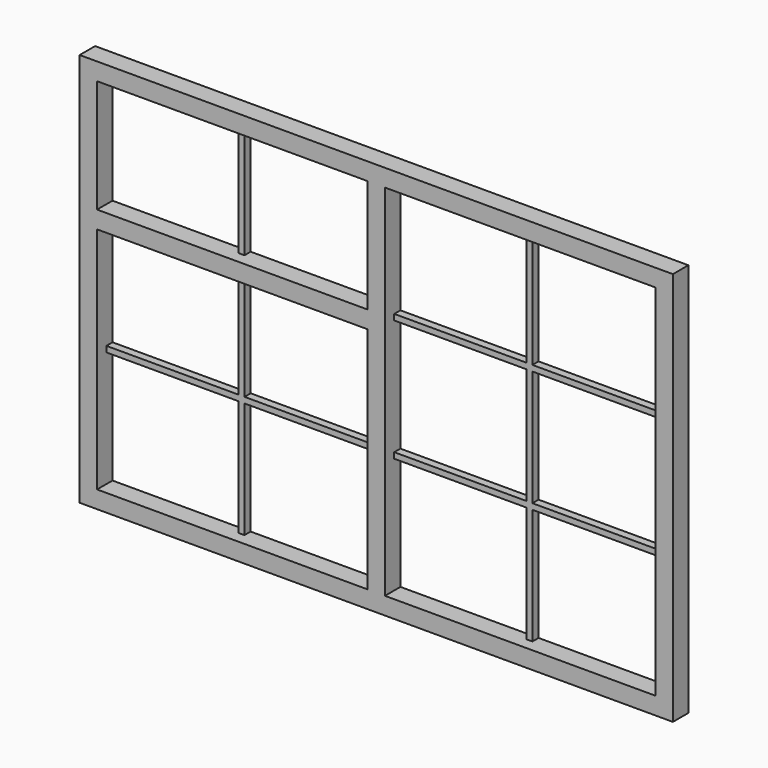
from build123d import *

# Parameters (mm, degrees)
F0_W     = 1535
F0_H     = 1020
F0_W_2   = 700
F0_H_2   = 592.5
F0_H_3   = 930
F0_H_4   = 292.5
F1_DEPTH = 50
F2_W     = 15
F2_H     = 292.5
F3_DEPTH = 20


with BuildPart() as f1:
    # F0 (on Front) → F1 (new body)
    with BuildSketch(Plane.XZ):
        with Locations((767.5, 510)):
            Rectangle(F0_W, F0_H)
        with Locations((1140, 341.25)):
            Rectangle(F0_W_2, F0_H_2, mode=Mode.SUBTRACT)
        with Locations((395, 510)):
            Rectangle(F0_W_2, F0_H_3, mode=Mode.SUBTRACT)
        with Locations((1140, 828.75)):
            Rectangle(F0_W_2, F0_H_4, mode=Mode.SUBTRACT)
    extrude(amount=F1_DEPTH)

    # F2 (on Front) → F3 (join)
    with BuildSketch(Plane.XZ):
        Polygon((402.5, 975), (387.5, 975), (387.5, 675), (45, 675), (45, 660), (387.5, 660), (387.5, 360), (45, 360), (45, 345), (387.5, 345), (387.5, 45), (402.5, 45), (402.5, 345), (745, 345), (745, 360), (402.5, 360), (402.5, 660), (745, 660), (745, 675), (402.5, 675), align=None)
        Polygon((1132.5, 360), (790, 360), (790, 345), (1132.5, 345), (1132.5, 45), (1147.5, 45), (1147.5, 345), (1490, 345), (1490, 360), (1147.5, 360), (1147.5, 637.5), (1132.5, 637.5), align=None)
        with Locations((1140, 828.75)):
            Rectangle(F2_W, F2_H)
    extrude(amount=F3_DEPTH)


with BuildPart() as f4_1:
    # F4: instance of F1
    add(f1.part.mirror(Plane(origin=(1535, -25, 510), x_dir=(0, 1, 0), z_dir=(1, 0, 0))))


solid = f4_1.part
